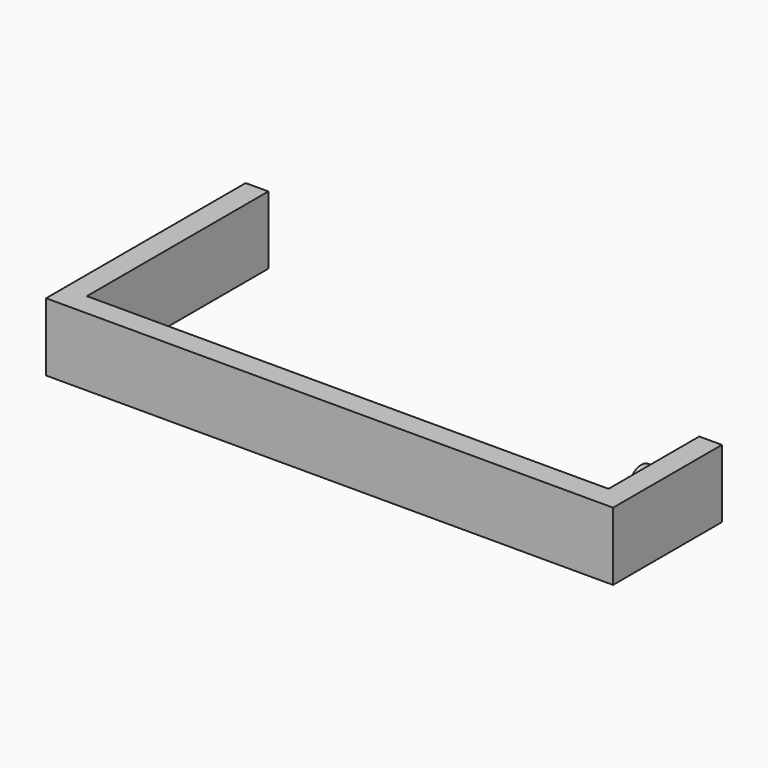
from build123d import *

# Parameters (mm, degrees)
F1_DEPTH = 15
F2_R     = 3.5
F3_DEPTH = 6


with BuildPart() as f1:
    # F0 (on Top) → F1 (new body)
    with BuildSketch(Plane.XY):
        Polygon((-166.378987, 166.578952), (-171.378987, 166.578952), (-171.378987, 111.578952), (-46.378987, 111.578952), (-46.378987, 141.578952), (-51.378987, 141.578952), (-51.378987, 116.578952), (-166.378987, 116.578952), align=None)
    extrude(amount=F1_DEPTH)

    # F2 (on face) → F3 (join)
    with BuildSketch(Plane(origin=(-51.378987, 0, 0), x_dir=(0, -1, 0), z_dir=(-1, 0, 0))):
        with Locations((-133.078952, 7.5)):
            Circle(F2_R)
    extrude(amount=F3_DEPTH)


solid = f1.part
